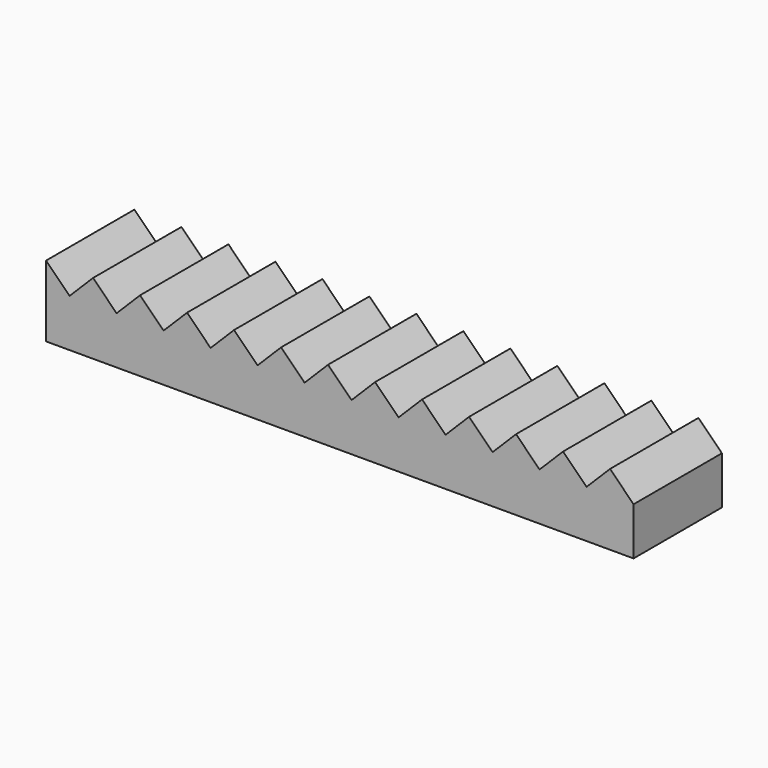
from build123d import *

# Parameters (mm, degrees)
F1_DEPTH = 25.4


with BuildPart() as f1:
    # F0 (on Front) → F1 (new body)
    with BuildSketch(Plane.XZ):
        Polygon((-73.432766, 0), (-73.432766, -16.373871), (61.662403, -16.373871), (61.662403, -5.403807), (56.258597, 0), (50.85479, -5.403807), (45.450983, 0), (40.047176, -5.403807), (34.643369, 0), (29.239563, -5.403807), (23.835756, 0), (18.431949, -5.403807), (13.028142, 0), (7.624336, -5.403807), (2.220529, 0), (-3.183278, -5.403807), (-8.587085, 0), (-13.990891, -5.403807), (-19.394698, 0), (-24.798505, -5.403807), (-30.202312, 0), (-35.606119, -5.403807), (-41.009925, 0), (-46.413732, -5.403807), (-51.817539, 0), (-57.221346, -5.403807), (-62.625152, 0), (-68.028959, -5.403807), align=None)
    extrude(amount=F1_DEPTH)


solid = f1.part
